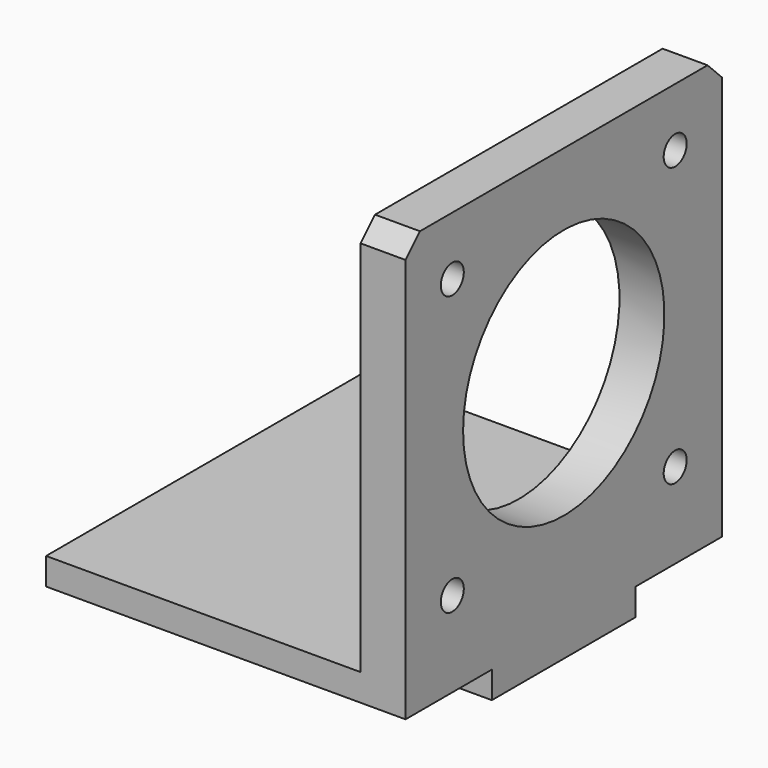
from build123d import *

# Parameters (mm, degrees)
CYLINDER006_R          = 14
CYLINDER006_DEPTH      = 10
CYLINDER003_R          = 1.6
CYLINDER003_DEPTH      = 10
CYLINDER004_R          = 1.6
CYLINDER004_DEPTH      = 10
CYLINDER005_R          = 1.6
CYLINDER005_DEPTH      = 10
CYLINDER002_R          = 1.6
CYLINDER002_DEPTH      = 10
BOX_W                  = 44
BOX_H                  = 44
BOX_DEPTH              = 5
CUT001_ROLL_ANGLE      = -90
CUT001_PLACEMENT_ANGLE = -90
CHAMFER_SIZE           = 2
BOX003_W               = 40
BOX003_H               = 44
BOX003_DEPTH           = 3
BOX006_W               = 40
BOX006_H               = 20
BOX006_DEPTH           = 3


with BuildPart() as cylinder006:
    # Cylinder006 → Cylinder006 (new body)
    with BuildSketch(Plane.XY):
        Circle(CYLINDER006_R)
    extrude(amount=CYLINDER006_DEPTH)


with BuildPart() as cylinder003:
    # Cylinder003 → Cylinder003 (new body)
    with BuildSketch(Plane(origin=(-15.5, 15.5, 0), x_dir=(1, 0, 0), z_dir=(0, 0, 1))):
        Circle(CYLINDER003_R)
    extrude(amount=CYLINDER003_DEPTH)


with BuildPart() as cylinder004:
    # Cylinder004 → Cylinder004 (new body)
    with BuildSketch(Plane(origin=(15.5, -15.5, 0), x_dir=(1, 0, 0), z_dir=(0, 0, 1))):
        Circle(CYLINDER004_R)
    extrude(amount=CYLINDER004_DEPTH)


with BuildPart() as cylinder005:
    # Cylinder005 → Cylinder005 (new body)
    with BuildSketch(Plane(origin=(15.5, 15.5, 0), x_dir=(1, 0, 0), z_dir=(0, 0, 1))):
        Circle(CYLINDER005_R)
    extrude(amount=CYLINDER005_DEPTH)


with BuildPart() as fusion:
    # Cylinder002 → Cylinder002 (new body)
    with BuildSketch(Plane(origin=(-15.5, -15.5, 0), x_dir=(1, 0, 0), z_dir=(0, 0, 1))):
        Circle(CYLINDER002_R)
    extrude(amount=CYLINDER002_DEPTH)

    # Fusion: union Cylinder003, Cylinder004, Cylinder005
    add(cylinder003.part)
    add(cylinder004.part)
    add(cylinder005.part)


with BuildPart() as chamfer_body:
    # Box → Box (new body)
    with BuildSketch(Plane(origin=(-22, -22, 0), x_dir=(1, 0, 0), z_dir=(0, 0, 1))):
        with Locations((22, 22)):
            Rectangle(BOX_W, BOX_H)
    extrude(amount=BOX_DEPTH)

    # Cut: cut Fusion
    add(fusion.part, mode=Mode.SUBTRACT)

    # Cut001: cut Cylinder006
    add(cylinder006.part, mode=Mode.SUBTRACT)


with BuildPart() as chamfer_body_1:
    # Cut001 roll: moved
    add(chamfer_body.part.rotate(Axis((0, 0, 0), (1, 0, 0)), CUT001_ROLL_ANGLE))


with BuildPart() as chamfer_body_2:
    # Cut001 placement: moved
    add(chamfer_body_1.part.moved(Location((0, 4, 30))).rotate(Axis((0, 4, 30), (0, 0, 1)), CUT001_PLACEMENT_ANGLE))

    # Chamfer
    chamfer_edges = [chamfer_body_2.edges().sort_by_distance(p)[0] for p in [
        (2.5, 26, 52),
        (2.5, -18, 52),
    ]]
    chamfer(chamfer_edges, length=CHAMFER_SIZE)


with BuildPart() as fusion008:
    # Box003 → Box003 (new body)
    with BuildSketch(Plane(origin=(-35, -18, 5), x_dir=(1, 0, 0), z_dir=(0, 0, 1))):
        with Locations((20, 22)):
            Rectangle(BOX003_W, BOX003_H)
    extrude(amount=BOX003_DEPTH)

    # Fusion008: union Chamfer body
    add(chamfer_body_2.part)


with BuildPart() as fusion008_1:
    # Fusion008 placement: moved
    add(fusion008.part.moved(Location((-13, 0, 0))))


with BuildPart() as fusion010:
    # Box006 → Box006 (new body)
    with BuildSketch(Plane(origin=(-48, -6, 2), x_dir=(1, 0, 0), z_dir=(0, 0, 1))):
        with Locations((20, 10)):
            Rectangle(BOX006_W, BOX006_H)
    extrude(amount=BOX006_DEPTH)

    # Fusion010: union Fusion008
    add(fusion008_1.part)


with BuildPart() as fusion010_1:
    # Fusion010 placement: moved
    add(fusion010.part.moved(Location((-17.6, 0, 0))))


solid = fusion010_1.part
